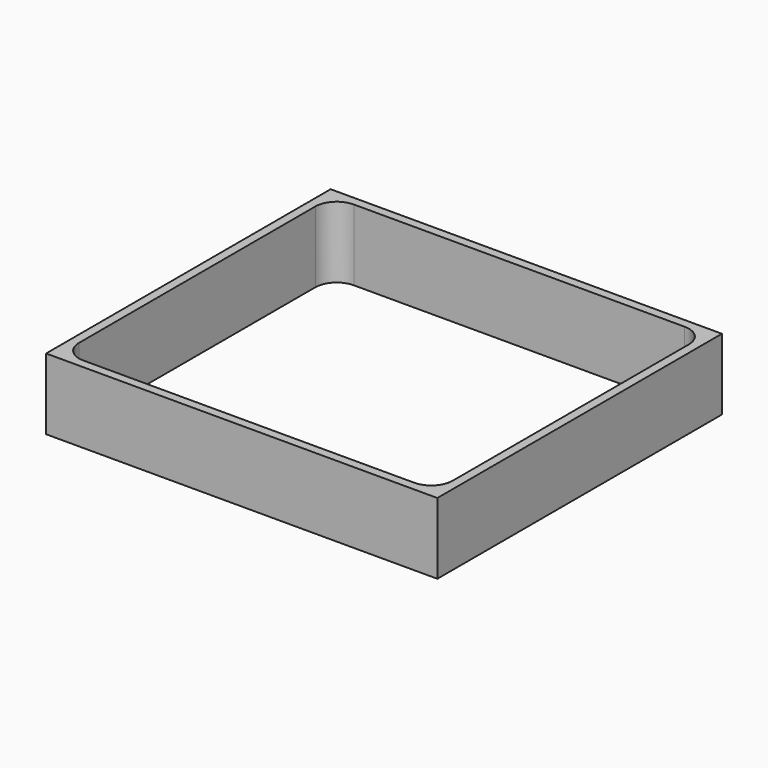
from build123d import *

# Parameters (mm, degrees)
F1_DEPTH = 25.4
F2_R     = 7.62


with BuildPart() as f1:
    # F0 (on Top) → F1 (new body)
    with BuildSketch(Plane.XY):
        Polygon((-44.45, 63.5), (-69.85, 63.5), (-69.85, 38.1), (-66.675, 38.1), (-66.675, 60.325), (-44.45, 60.325), align=None)
        Polygon((69.85, 63.5), (-44.45, 63.5), (-44.45, 60.325), (66.675, 60.325), (66.675, -60.325), (-66.675, -60.325), (-66.675, 38.1), (-69.85, 38.1), (-69.85, -63.5), (69.85, -63.5), align=None)
    extrude(amount=F1_DEPTH)

    # F2
    f2_edges = [f1.edges().sort_by_distance(p)[0] for p in [
        (66.675, 60.325, 12.7),
        (66.675, -60.325, 12.7),
        (-66.675, -60.325, 12.7),
        (-66.675, 60.325, 12.7),
    ]]
    fillet(f2_edges, radius=F2_R)


solid = f1.part
